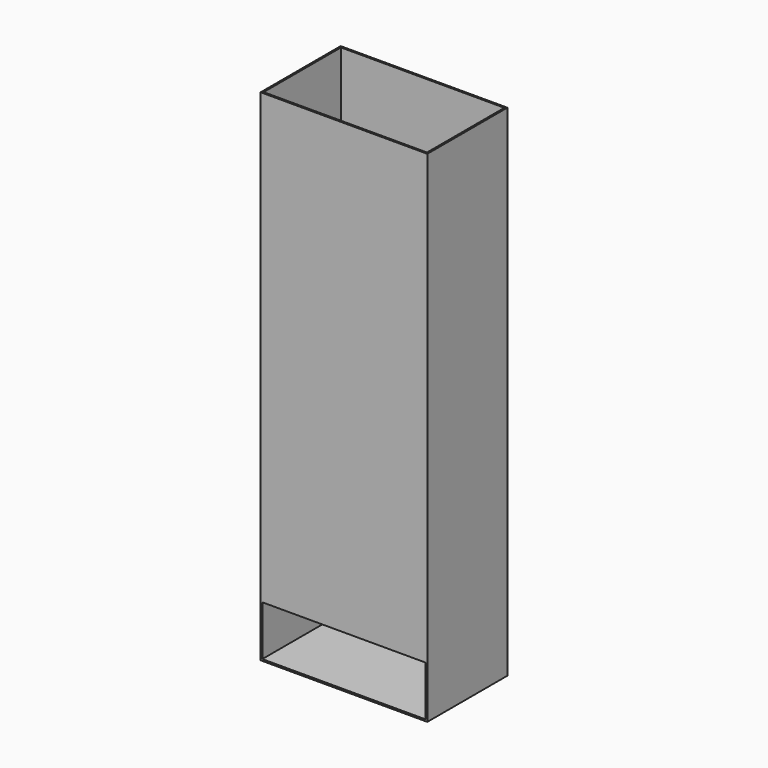
from build123d import *

# Parameters (mm, degrees)
F0_W     = 254
F0_H     = 762
F1_DEPTH = 152.4
F3_T     = -2.54
F4_W     = 248.92
F4_H     = 76.2
F5_DEPTH = 12.7


with BuildPart() as f1:
    # F0 (on Front) → F1 (new body)
    with BuildSketch(Plane.XZ):
        with Locations((-139.834513, 0.342414)):
            Rectangle(F0_W, F0_H)
    extrude(amount=F1_DEPTH)

    # F3
    f3_openings = [f1.faces().sort_by_distance(p)[0] for p in [
        (-139.834513, -76.2, 381.342414),
    ]]
    offset(amount=F3_T, openings=f3_openings)

    # F4 (on face) → F5 (cut)
    with BuildSketch(Plane.XZ.offset(152.4)):
        with Locations((-139.834513, -340.017586)):
            Rectangle(F4_W, F4_H)
    extrude(amount=-F5_DEPTH, mode=Mode.SUBTRACT)


solid = f1.part
